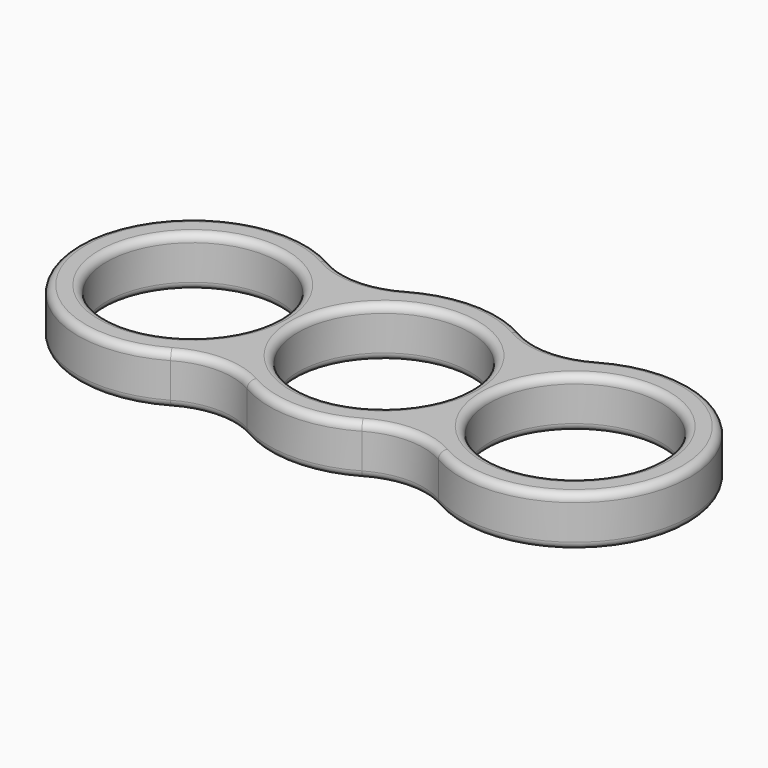
from build123d import *

# Parameters (mm, degrees)
F0_R     = 11.25
F1_DEPTH = 3.275
F2_R     = 1
F3_R     = 1


with BuildPart() as f1:
    # F0 (on Top) → F1 (new body, symmetric)
    with BuildSketch(Plane.XY):
        with BuildLine():
            ThreePointArc((-17.5, -12.990381), (-12.5, -11.650635), (-7.5, -12.990381))
            ThreePointArc((-7.5, -12.990381), (0, -15), (7.5, -12.990381))
            ThreePointArc((7.5, -12.990381), (12.5, -11.650635), (17.5, -12.990381))
            ThreePointArc((17.5, -12.990381), (40, 0), (17.5, 12.990381))
            ThreePointArc((17.5, 12.990381), (12.5, 11.650635), (7.5, 12.990381))
            ThreePointArc((7.5, 12.990381), (0, 15), (-7.5, 12.990381))
            ThreePointArc((-7.5, 12.990381), (-12.5, 11.650635), (-17.5, 12.990381))
            ThreePointArc((-17.5, 12.990381), (-40, 0), (-17.5, -12.990381))
        make_face()
        with Locations((-25, 0)):
            Circle(F0_R, mode=Mode.SUBTRACT)
        Circle(F0_R, mode=Mode.SUBTRACT)
        with Locations((25, 0)):
            Circle(F0_R, mode=Mode.SUBTRACT)
    extrude(amount=F1_DEPTH, both=True)

    # F2
    f2_edges = [f1.edges().sort_by_distance(p)[0] for p in [
        (-12.5, -11.650635, 3.275),
        (0, -15, 3.275),
        (12.5, -11.650635, 3.275),
        (40, 0, 3.275),
        (12.5, 11.650635, 3.275),
        (0, 15, 3.275),
        (-12.5, 11.650635, 3.275),
        (-40, 0, 3.275),
        (-36.25, 0, 3.275),
        (-11.25, 0, 3.275),
        (13.75, 0, 3.275),
    ]]
    fillet(f2_edges, radius=F2_R)

    # F3
    f3_edges = [f1.edges().sort_by_distance(p)[0] for p in [
        (-12.5, -11.650635, -3.275),
        (0, -15, -3.275),
        (12.5, -11.650635, -3.275),
        (40, 0, -3.275),
        (12.5, 11.650635, -3.275),
        (0, 15, -3.275),
        (-12.5, 11.650635, -3.275),
        (-40, 0, -3.275),
        (-36.25, 0, -3.275),
        (-11.25, 0, -3.275),
        (13.75, 0, -3.275),
    ]]
    fillet(f3_edges, radius=F3_R)


solid = f1.part
